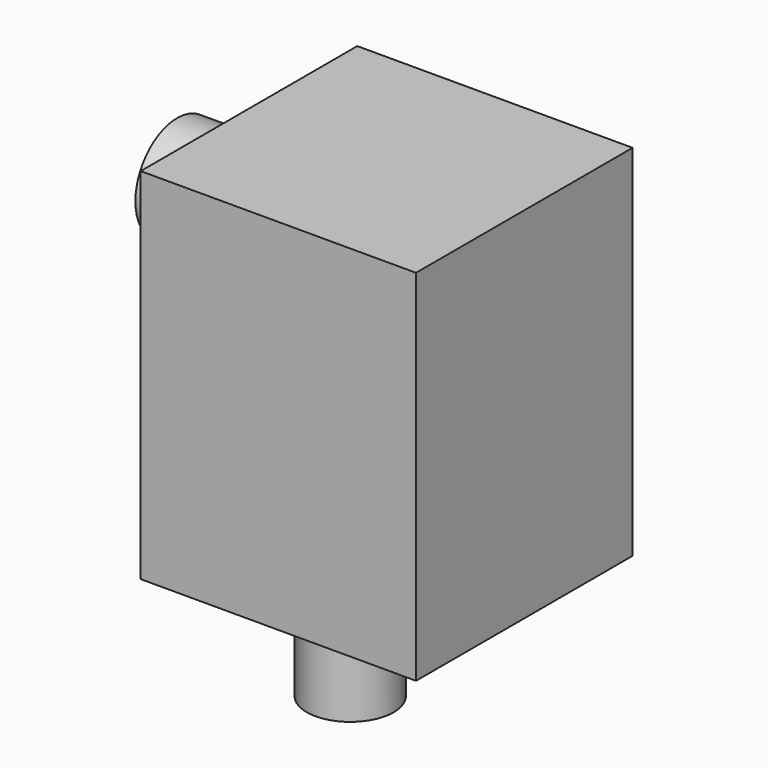
from build123d import *

# Parameters (mm, degrees)
F0_W      = 194.676966
F0_H      = 191.409708
F1_DEPTH  = 127
F2_R      = 36.833921
F3_DEPTH  = 50.8
F4_R      = 30.741414
F5_DEPTH  = 76.2
F3_FACE_R = 36.833921
F6_DEPTH  = 0.0254
F5_FACE_R = 30.741414
F7_DEPTH  = 0.0254


with BuildPart() as f1:
    # F0 (on Top) → F1 (new body, symmetric)
    with BuildSketch(Plane.XY):
        Rectangle(F0_W, F0_H)
    extrude(amount=F1_DEPTH, both=True)

    # F2 (on face) → F3 (join)
    with BuildSketch(Plane(origin=(-97.338483, 0, 0), x_dir=(0, -1, 0), z_dir=(-1, 0, 0))):
        with Locations((0, 67.732848)):
            Circle(F2_R)
    extrude(amount=F3_DEPTH)

    # F4 (on face) → F5 (join)
    with BuildSketch(Plane(origin=(0, 0, -127), x_dir=(1, 0, 0), z_dir=(0, 0, -1))):
        with Locations((-11.009098, 18.422194)):
            Circle(F4_R)
    extrude(amount=F5_DEPTH)


with BuildPart() as f6:
    # F3_face (on face) → F6 (new body)
    with BuildSketch(Plane(origin=(-148.138483, 0, 67.732848), x_dir=(0, -1, 0), z_dir=(-1, 0, 0))):
        Circle(F3_FACE_R)
    extrude(amount=F6_DEPTH)


with BuildPart() as f7:
    # F5_face (on face) → F7 (new body)
    with BuildSketch(Plane(origin=(-11.009098, -18.422194, -203.2), x_dir=(1, 0, 0), z_dir=(0, 0, -1))):
        Circle(F5_FACE_R)
    extrude(amount=F7_DEPTH)


solid = Compound([f1.part, f6.part, f7.part])
